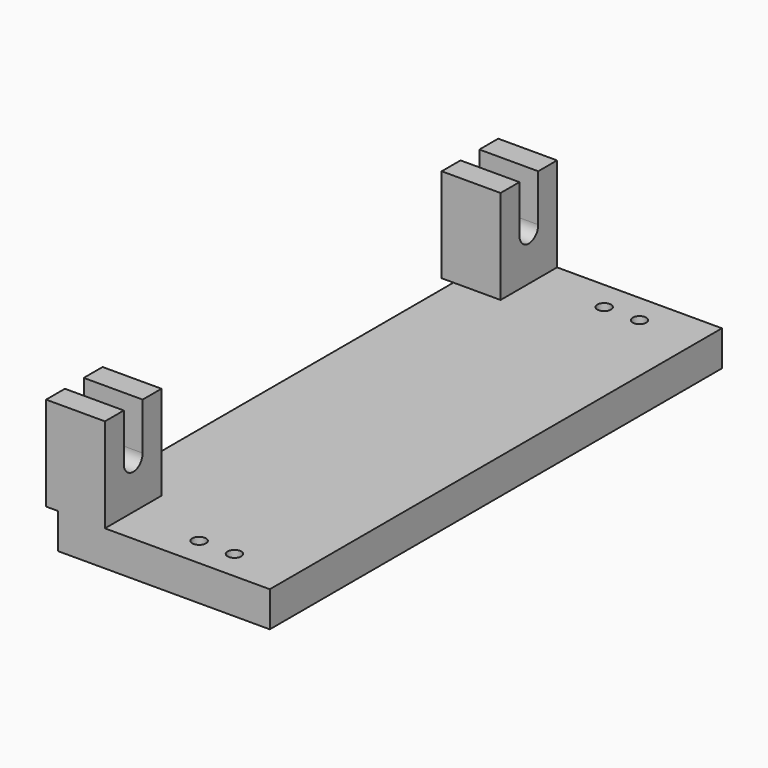
from build123d import *

# Parameters (mm, degrees)
SKETCH011_W   = 240
SKETCH011_H   = 15
PAD007_DEPTH  = 90
SKETCH012_R   = 2.9
HOLE004_DEPTH = 270.001
PAD008_DEPTH  = 25


with BuildPart() as part:
    # Sketch011 → Pad007 (new body)
    with BuildSketch(Plane.YZ.offset(5)):
        with Locations((95, 262.5)):
            Rectangle(SKETCH011_W, SKETCH011_H)
    extrude(amount=PAD007_DEPTH)

    # Sketch012 → Hole004 (cut, through all)
    with BuildSketch(Plane.XY):
        with Locations((55, 202.5)):
            Circle(SKETCH012_R)
        with Locations((70, 202.5)):
            Circle(SKETCH012_R)
        with Locations((55, -12.5)):
            Circle(SKETCH012_R)
        with Locations((70, -12.5)):
            Circle(SKETCH012_R)
    extrude(amount=HOLE004_DEPTH, mode=Mode.SUBTRACT)

    # Sketch013 → Pad008 (join)
    with BuildSketch(Plane.YZ):
        with BuildLine():
            Line((-25, 270), (-25, 310))
            Line((-15, 310), (-25, 310))
            Line((-15, 310), (-15, 290))
            ThreePointArc((-15, 290), (-10, 285), (-5, 290))
            Line((-5, 310), (-5, 290))
            Line((-5, 310), (5, 310))
            Line((5, 270), (5, 310))
            Line((-25, 270), (5, 270))
        make_face()
        with BuildLine():
            Line((185, 270), (185, 310))
            Line((195, 310), (185, 310))
            Line((195, 310), (195, 290))
            ThreePointArc((195, 290), (200, 285), (205, 290))
            Line((205, 310), (205, 290))
            Line((205, 310), (215, 310))
            Line((215, 270), (215, 310))
            Line((185, 270), (215, 270))
        make_face()
    extrude(amount=PAD008_DEPTH)


with BuildPart() as part_1:
    # Clone008 placement: moved
    add(part.part.moved(Location((0, 250, 0))))


solid = part_1.part
